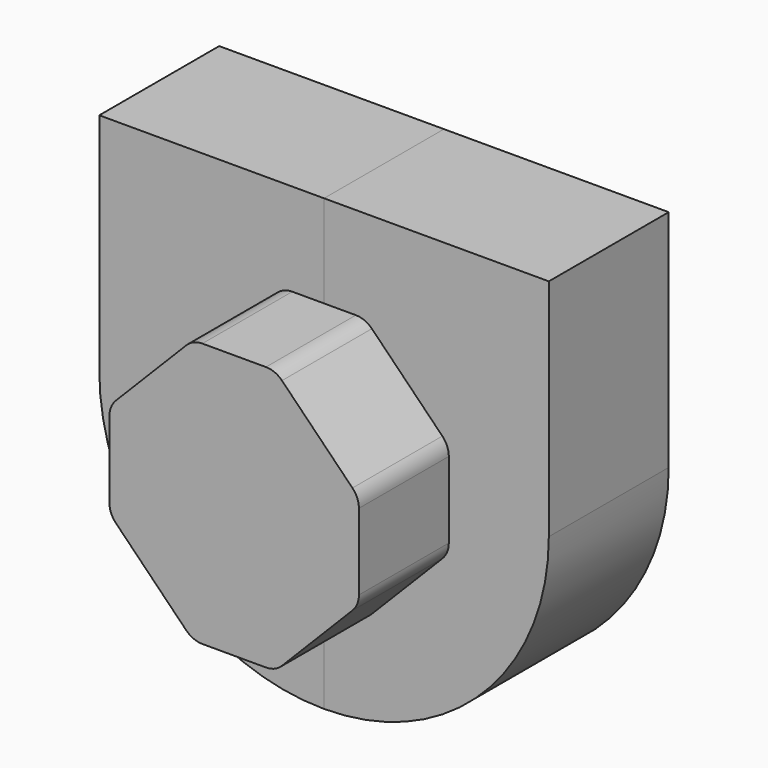
from build123d import *

# Parameters (mm, degrees)
F1_DEPTH      = 25
F1_DEPTH_BACK = 25
F2_DEPTH      = 10
F2_DEPTH_BACK = 10
F3_DEPTH      = 10
F3_DEPTH_BACK = 10


with BuildPart() as f1:
    # F0 (on Front) → F1 (new body, two sides)
    with BuildSketch(Plane.XZ) as f1_sk:
        with BuildLine():
            ThreePointArc((-15.788288, 7.195126), (-16.426226, 6.227822), (-16.65, 5.09091))
            Line((-16.65, 5.09091), (-16.65, -5.09091))
            ThreePointArc((-16.65, -5.09091), (-16.426226, -6.227822), (-15.788288, -7.195126))
            Line((-15.788288, -7.195126), (-6.38151, -16.754216))
            ThreePointArc((-6.38151, -16.754216), (-5.402393, -17.417006), (-4.243223, -17.65))
            Line((-4.243223, -17.65), (0, -17.65))
            Line((0, -17.65), (4.243223, -17.65))
            ThreePointArc((4.243223, -17.65), (5.402393, -17.417006), (6.38151, -16.754216))
            Line((6.38151, -16.754216), (15.788288, -7.195126))
            ThreePointArc((15.788288, -7.195126), (16.426226, -6.227822), (16.65, -5.09091))
            Line((16.65, -5.09091), (16.65, 5.09091))
            ThreePointArc((16.65, 5.09091), (16.426226, 6.227822), (15.788288, 7.195126))
            Line((15.788288, 7.195126), (6.38151, 16.754216))
            ThreePointArc((6.38151, 16.754216), (5.402393, 17.417006), (4.243223, 17.65))
            Line((4.243223, 17.65), (0, 17.65))
            Line((0, 17.65), (-4.243223, 17.65))
            ThreePointArc((-4.243223, 17.65), (-5.402393, 17.417006), (-6.38151, 16.754216))
            Line((-6.38151, 16.754216), (-15.788288, 7.195126))
        make_face()
    extrude(amount=F1_DEPTH)
    extrude(f1_sk.sketch, amount=-F1_DEPTH_BACK)


with BuildPart() as f2:
    # F0 (on Front) → F2 (new body, two sides)
    with BuildSketch(Plane.XZ) as f2_sk:
        with BuildLine():
            ThreePointArc((-30, 0), (-21.213203, 21.213203), (0, 30))
            Line((0, 30), (-30, 30))
            Line((-30, 30), (-30, 0))
        make_face()
        with BuildLine():
            Line((-16.65, -5.09091), (-16.65, 5.09091))
            ThreePointArc((-16.65, 5.09091), (-16.426226, 6.227822), (-15.788288, 7.195126))
            Line((-15.788288, 7.195126), (-6.38151, 16.754216))
            ThreePointArc((-6.38151, 16.754216), (-5.402393, 17.417006), (-4.243223, 17.65))
            Line((-4.243223, 17.65), (0, 17.65))
            Line((0, 17.65), (0, 30))
            ThreePointArc((0, 30), (-21.213203, 21.213203), (-30, 0))
            ThreePointArc((-30, 0), (-21.213203, -21.213203), (0, -30))
            Line((0, -30), (0, -17.65))
            Line((0, -17.65), (-4.243223, -17.65))
            ThreePointArc((-4.243223, -17.65), (-5.402393, -17.417006), (-6.38151, -16.754216))
            Line((-6.38151, -16.754216), (-15.788288, -7.195126))
            ThreePointArc((-15.788288, -7.195126), (-16.426226, -6.227822), (-16.65, -5.09091))
        make_face()
    extrude(amount=F2_DEPTH)
    extrude(f2_sk.sketch, amount=-F2_DEPTH_BACK)


with BuildPart() as f3:
    # F0 (on Front) → F3 (new body, two sides)
    with BuildSketch(Plane.XZ) as f3_sk:
        with BuildLine():
            Line((30, 30), (0, 30))
            ThreePointArc((0, 30), (21.213203, 21.213203), (30, 0))
            Line((30, 0), (30, 30))
        make_face()
        with BuildLine():
            Line((0, 30), (0, 17.65))
            Line((0, 17.65), (4.243223, 17.65))
            ThreePointArc((4.243223, 17.65), (5.402393, 17.417006), (6.38151, 16.754216))
            Line((6.38151, 16.754216), (15.788288, 7.195126))
            ThreePointArc((15.788288, 7.195126), (16.426226, 6.227822), (16.65, 5.09091))
            Line((16.65, 5.09091), (16.65, -5.09091))
            ThreePointArc((16.65, -5.09091), (16.426226, -6.227822), (15.788288, -7.195126))
            Line((15.788288, -7.195126), (6.38151, -16.754216))
            ThreePointArc((6.38151, -16.754216), (5.402393, -17.417006), (4.243223, -17.65))
            Line((4.243223, -17.65), (0, -17.65))
            Line((0, -17.65), (0, -30))
            ThreePointArc((0, -30), (21.213203, -21.213203), (30, 0))
            ThreePointArc((30, 0), (21.213203, 21.213203), (0, 30))
        make_face()
    extrude(amount=F3_DEPTH)
    extrude(f3_sk.sketch, amount=-F3_DEPTH_BACK)


solid = Compound([f1.part, f2.part, f3.part])
